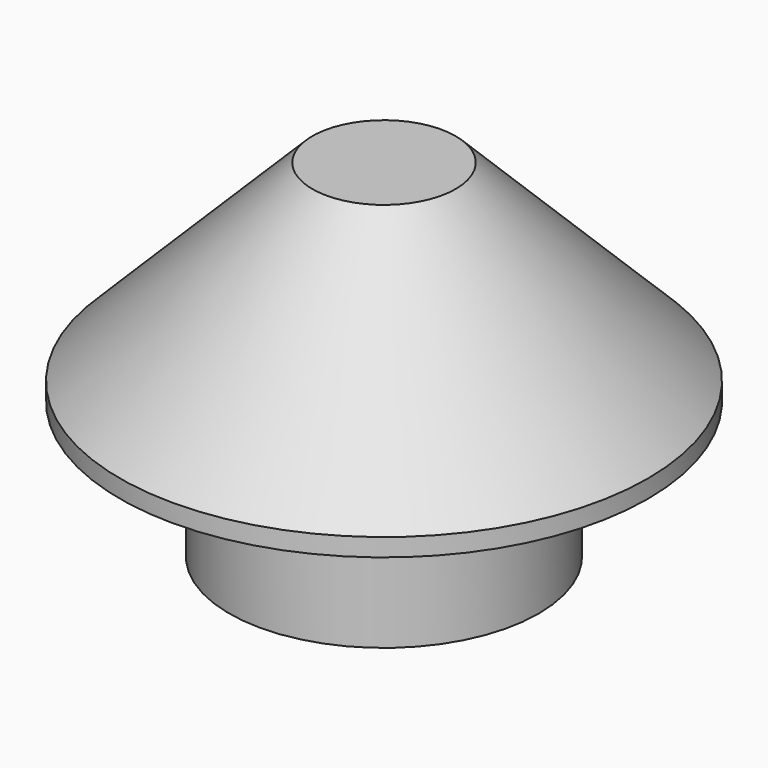
from build123d import *

# Parameters (mm, degrees)
F2_T = -1.2


with BuildPart() as f1:
    # F0 (on Front) → F1 (revolve)
    with BuildSketch(Plane.XZ):
        Polygon((0, 9.676), (0, 0), (4.318, 0), (4.318, 3.81), (7.366, 3.81), (7.366, 4.31), (2, 9.676), align=None)
    revolve(axis=Axis((0, 0, 4.838), (0, 0, -1)))

    # F2
    f2_openings = [f1.faces().sort_by_distance(p)[0] for p in [
        (0, 0, 0),
    ]]
    offset(amount=F2_T, openings=f2_openings, kind=Kind.INTERSECTION)

    # F3 (on Front) → F4 (revolve)
    with BuildSketch(Plane.XZ):
        Polygon((4.9689437252, 5.01), (3.118, 6.8609437252), (3.118, 5.01), align=None)
    revolve(axis=Axis((0, 0, 0), (0, 0, 1)))


solid = f1.part
